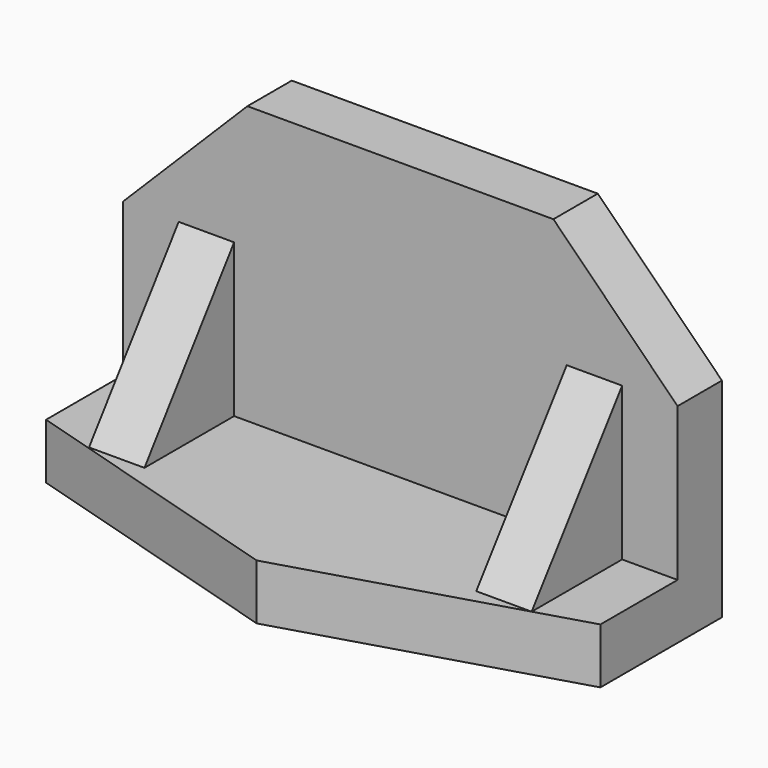
from build123d import *

# Parameters (mm, degrees)
F0_W      = 127
F0_H      = 76.2
F1_DEPTH  = 53.848
F2_W      = 127
F2_H      = 41.148
F3_DEPTH  = 63.5
F5_DEPTH  = 12.7
F7_DEPTH  = 12.7
F8_W      = 12.7
F8_H      = 26.142063
F9_DEPTH  = 35.052
F11_DEPTH = 12.7
F12_W     = 12.7
F12_H     = 25.67689
F13_DEPTH = 35.052
F15_DEPTH = 12.7


with BuildPart() as f1:
    # F0 (on Front) → F1 (new body)
    with BuildSketch(Plane.XZ):
        with Locations((-1.86439, -12.836598)):
            Rectangle(F0_W, F0_H)
    extrude(amount=F1_DEPTH)

    # F2 (on face) → F3 (cut)
    with BuildSketch(Plane.XY.offset(25.263402)):
        with Locations((-1.86439, -33.274)):
            Rectangle(F2_W, F2_H)
    extrude(amount=-F3_DEPTH, mode=Mode.SUBTRACT)

    # F4 (on face) → F5 (cut)
    with BuildSketch(Plane.XZ.offset(12.7)):
        Polygon((-36.91639, 25.263402), (-65.36439, 25.263402), (-65.36439, -3.184598), align=None)
        Polygon((61.63561, 25.263402), (33.18761, 25.263402), (61.63561, -3.184598), align=None)
    extrude(amount=-F5_DEPTH, mode=Mode.SUBTRACT)

    # F6 (on face) → F7 (cut)
    with BuildSketch(Plane.XY.offset(-38.236598)):
        Polygon((-65.36439, -53.848), (-1.86439, -53.848), (-65.36439, -34.798), align=None)
        Polygon((-1.86439, -53.848), (61.63561, -53.848), (61.63561, -34.798), align=None)
    extrude(amount=-F7_DEPTH, mode=Mode.SUBTRACT)

    # F8 (on face) → F9 (join)
    with BuildSketch(Plane.XY.offset(-38.236598)):
        with Locations((42.58561, -25.771031)):
            Rectangle(F8_W, F8_H)
    extrude(amount=F9_DEPTH)

    # F10 (on face) → F11 (cut)
    with BuildSketch(Plane.YZ.offset(48.93561)):
        Polygon((-38.842063, -38.236598), (-38.608, -38.236598), (-12.7, -3.184598), (-38.842063, -3.184598), align=None)
    extrude(amount=-F11_DEPTH, mode=Mode.SUBTRACT)

    # F12 (on face) → F13 (join)
    with BuildSketch(Plane.XY.offset(-38.236598)):
        with Locations((-46.31439, -25.538445)):
            Rectangle(F12_W, F12_H)
    extrude(amount=F13_DEPTH)

    # F14 (on face) → F15 (cut)
    with BuildSketch(Plane(origin=(-52.66439, 0, 0), x_dir=(0, -1, 0), z_dir=(-1, 0, 0))):
        Polygon((38.37689, -3.184598), (12.7, -3.184598), (38.37689, -38.236598), align=None)
    extrude(amount=-F15_DEPTH, mode=Mode.SUBTRACT)


solid = f1.part
